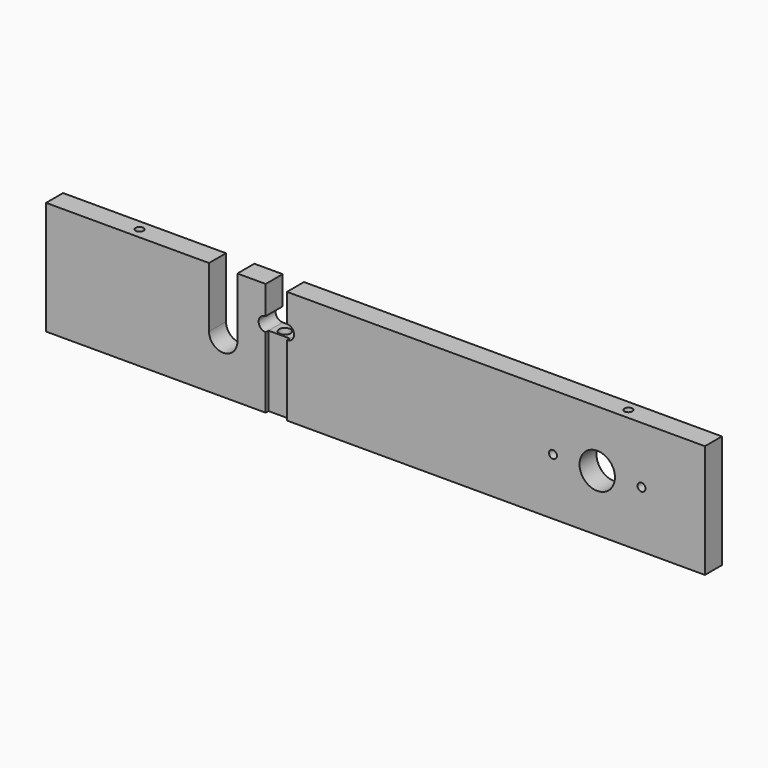
from build123d import *

# Parameters (mm, degrees)
F0_R            = 1.7859375
F0_R_2          = 7.9375
F1_DEPTH        = 9.525
F2_W            = 9.5377
F2_H            = 31.75
F3_DEPTH        = 1.5875
F5_D            = 3.571875
F5_DEPTH        = 19.05
F5_TIP          = 1.0730995118
F7_D            = 5.159375
F7_DEPTH        = 19.05
F7_TIP          = 1.5500326281
F11_D           = 3.571875
F11_DEPTH       = 12.7
F11_TIP         = 1.0730995118
F11_ON_F8_D     = 3.571875
F11_ON_F8_DEPTH = 12.7
F11_ON_F8_TIP   = 1.0730995118
F11_ON_F9_D     = 3.571875
F11_ON_F9_DEPTH = 12.7
F11_ON_F9_TIP   = 1.0730995118


with BuildPart() as f1:
    # F0 (on Front) → F1 (new body)
    with BuildSketch(Plane.XZ):
        with BuildLine():
            Line((0, 50.8), (0, 0))
            Line((0, 0), (295.275, 0))
            Line((295.275, 0), (295.275, 50.8))
            Line((295.275, 50.8), (107.9627, 50.8))
            Line((107.9627, 50.8), (107.9627, 38.1))
            ThreePointArc((107.9627, 38.1), (111.1377, 34.925), (107.9627, 31.75))
            Line((107.9627, 31.75), (98.425, 31.75))
            ThreePointArc((98.425, 31.75), (95.25, 34.925), (98.425, 38.1))
            Line((98.425, 38.1), (98.425, 50.8))
            Line((98.425, 50.8), (85.725, 50.8))
            Line((85.725, 50.8), (85.725, 23.8125))
            ThreePointArc((85.725, 23.8125), (79.375, 17.4625), (73.025, 23.8125))
            Line((73.025, 23.8125), (73.025, 50.8))
            Line((73.025, 50.8), (0, 50.8))
        make_face()
        with Locations((227.17125, 25.4)):
            Circle(F0_R, mode=Mode.SUBTRACT)
        with Locations((247.015, 25.4)):
            Circle(F0_R_2, mode=Mode.SUBTRACT)
        with Locations((266.85875, 25.4)):
            Circle(F0_R, mode=Mode.SUBTRACT)
    extrude(amount=F1_DEPTH)

    # F2 (on face) → F3 (cut)
    with BuildSketch(Plane.XZ.offset(9.525)):
        with Locations((103.19385, 15.875)):
            Rectangle(F2_W, F2_H)
    extrude(amount=-F3_DEPTH, mode=Mode.SUBTRACT)

    # F5
    with Locations(Plane(origin=(0, 0, 0), x_dir=(0, -1, 0), z_dir=(-1, 0, 0))):
        with Locations((4.7625, 38.1), (4.7625, 25.4), (4.7625, 12.7)):
            Hole(F5_D / 2, depth=F5_DEPTH)
            with Locations((0, 0, -(F5_DEPTH + F5_TIP / 2))):  # 118° drill point
                Cone(0, F5_D / 2, F5_TIP, mode=Mode.SUBTRACT)

    # F7
    with Locations(Plane.XY.offset(31.75)):
        with Locations((103.19385, -4.7625)):
            Hole(F7_D / 2, depth=F7_DEPTH)
            with Locations((0, 0, -(F7_DEPTH + F7_TIP / 2))):  # 118° drill point
                Cone(0, F7_D / 2, F7_TIP, mode=Mode.SUBTRACT)

    # F11
    with Locations(Plane(origin=(0, 0, 0), x_dir=(1, 0, 0), z_dir=(0, 0, -1))):
        with Locations((38.1, 4.7625), (257.175, 4.7625)):
            Hole(F11_D / 2, depth=F11_DEPTH)
            with Locations((0, 0, -(F11_DEPTH + F11_TIP / 2))):  # 118° drill point
                Cone(0, F11_D / 2, F11_TIP, mode=Mode.SUBTRACT)

    # F11 on F8
    with Locations(Plane.XY.offset(50.8)):
        with Locations((38.1, -4.7625)):
            Hole(F11_ON_F8_D / 2, depth=F11_ON_F8_DEPTH)
            with Locations((0, 0, -(F11_ON_F8_DEPTH + F11_ON_F8_TIP / 2))):  # 118° drill point
                Cone(0, F11_ON_F8_D / 2, F11_ON_F8_TIP, mode=Mode.SUBTRACT)

    # F11 on F9
    with Locations(Plane.XY.offset(50.8)):
        with Locations((257.175, -4.7625)):
            Hole(F11_ON_F9_D / 2, depth=F11_ON_F9_DEPTH)
            with Locations((0, 0, -(F11_ON_F9_DEPTH + F11_ON_F9_TIP / 2))):  # 118° drill point
                Cone(0, F11_ON_F9_D / 2, F11_ON_F9_TIP, mode=Mode.SUBTRACT)


solid = f1.part
